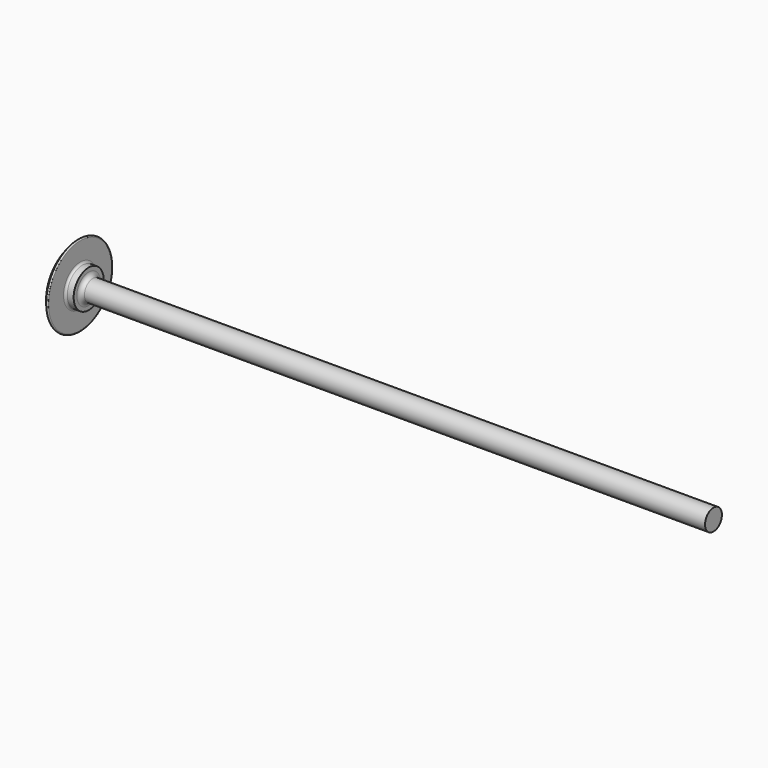
from build123d import *

# Parameters (mm, degrees)
F2_R     = 0.25
F3_R     = 0.5
F4_R     = 1
F6_DEPTH = 4


with BuildPart() as f1:
    # F0 (on Top) → F1 (revolve)
    with BuildSketch(Plane.XY):
        with BuildLine():
            Line((0, 0), (154.142136, 0))
            Line((154.142136, 0), (154.142136, 2.5))
            Line((154.142136, 2.5), (6.142136, 2.5))
            Line((6.142136, 2.5), (6.142136, 4.45))
            Line((6.142136, 4.45), (4.142136, 4.45))
            Line((4.142136, 4.45), (4.142136, 10))
            ThreePointArc((4.142136, 10), (1.076506, 5.411961), (0, 0))
        make_face()
    revolve(axis=Axis((35.770491, 0, 0), (1, 0, 0)))

    # F2
    f2_edges = [f1.edges().sort_by_distance(p)[0] for p in [
        (4.142136, -10, 0),
    ]]
    fillet(f2_edges, radius=F2_R)

    # F3
    f3_edges = [f1.edges().sort_by_distance(p)[0] for p in [
        (4.142136, -4.45, 0),
    ]]
    fillet(f3_edges, radius=F3_R)

    # F4
    f4_edges = [f1.edges().sort_by_distance(p)[0] for p in [
        (6.142136, -2.5, 0),
    ]]
    fillet(f4_edges, radius=F4_R)

    # F5 (on Right) → F6 (cut)
    with BuildSketch(Plane.YZ):
        Polygon((-2.886751, 0), (-1.443376, -2.5), (1.443376, -2.5), (2.886751, 0), (1.443376, 2.5), (-1.443376, 2.5), align=None)
    extrude(amount=F6_DEPTH, mode=Mode.SUBTRACT)


solid = f1.part
